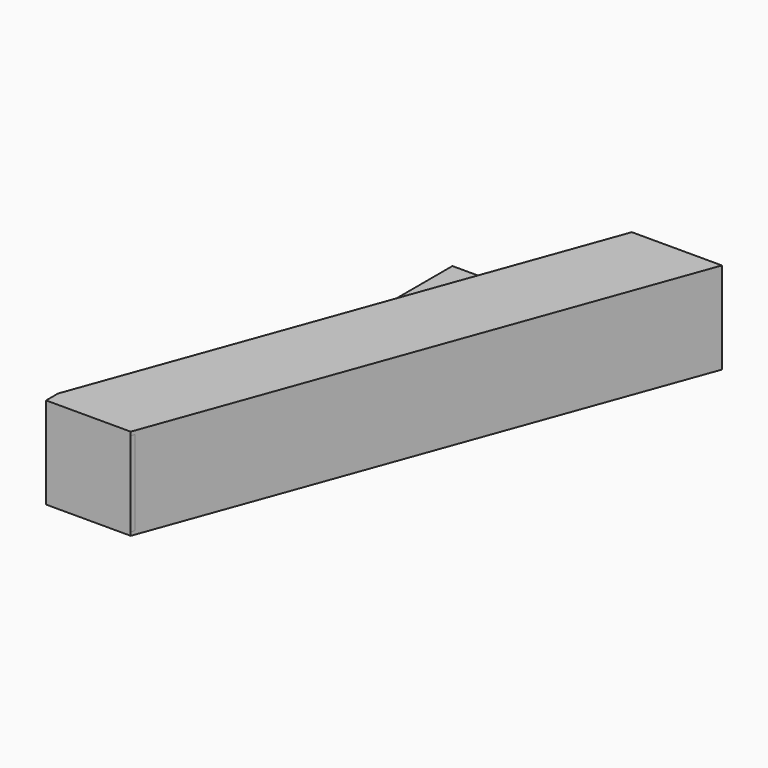
from build123d import *

# Parameters (mm, degrees)
F1_DEPTH = 3.175
F3_DEPTH = 76.2
F5_DEPTH = 3.175


with BuildPart() as f1:
    # F0 (on Top) → F1 (new body)
    with BuildSketch(Plane.XY):
        with BuildLine():
            ThreePointArc((0, 152.4), (23.5583821583, 150.5681328505), (46.5504148891, 145.1165699486))
            Line((46.5504148891, 145.1165699486), (76.2, 145.1165699486))
            Line((76.2, 145.1165699486), (76.2, 220.9699887776))
            Line((76.2, 220.9699887776), (0, 220.9699887776))
            Line((0, 220.9699887776), (0, 152.4))
        make_face()
        with BuildLine():
            Line((0, 145.1165699486), (46.5504148891, 145.1165699486))
            ThreePointArc((46.5504148891, 145.1165699486), (23.5583821583, 150.5681328505), (0, 152.4))
            Line((0, 152.4), (0, 145.1165699486))
        make_face()
        with BuildLine():
            Line((76.2, 79.9558987255), (76.2, 131.9822715367))
            ThreePointArc((76.2, 131.9822715367), (61.7255501195, 139.3402901621), (46.5504148891, 145.1165699486))
            Line((46.5504148891, 145.1165699486), (0, 145.1165699486))
            Line((0, 145.1165699486), (0, 102.5676841179))
            ThreePointArc((0, 102.5676841179), (39.7420836099, 96.795488514), (76.2, 79.9558987255))
        make_face()
        with BuildLine():
            Line((76.2, 30.069767419), (76.2, 79.9558987255))
            ThreePointArc((76.2, 79.9558987255), (39.7420836099, 96.795488514), (0, 102.5676841179))
            Line((0, 102.5676841179), (0, 64.4676841179))
            ThreePointArc((0, 64.4676841179), (41.802083301, 55.469767419), (76.2, 30.069767419))
        make_face()
        with BuildLine():
            ThreePointArc((134.4041666021, 0.9676841179), (112.4647200648, 45.7397345375), (76.2, 79.9558987255))
            Line((76.2, 79.9558987255), (76.2, 30.069767419))
            ThreePointArc((76.2, 30.069767419), (86.426594721, 16.2812004311), (94.1857207861, 0.9676841179))
            Line((94.1857207861, 0.9676841179), (134.4041666021, 0.9676841179))
        make_face()
        with BuildLine():
            ThreePointArc((94.1857207861, 0.9676841179), (86.426594721, 16.2812004311), (76.2, 30.069767419))
            Line((76.2, 30.069767419), (76.2, 0.9676841179))
            Line((76.2, 0.9676841179), (94.1857207861, 0.9676841179))
        make_face()
        with BuildLine():
            Line((94.1857207861, 0.9676841179), (76.2, 0.9676841179))
            Line((76.2, 0.9676841179), (76.2, -104.3343991831))
            ThreePointArc((76.2, -104.3343991831), (95.0380976241, -73.0533403663), (101.6, -37.1323158821))
            ThreePointArc((101.6, -37.1323158821), (99.7292064339, -17.7249620165), (94.1857207861, 0.9676841179))
        make_face()
        with BuildLine():
            ThreePointArc((0, -152.4), (39.4440224736, -147.2070959265), (76.2, -131.9822715367))
            Line((76.2, -131.9822715367), (76.2, -104.3343991831))
            ThreePointArc((76.2, -104.3343991831), (41.802083301, -129.7343991831), (0, -138.7323158821))
            Line((0, -138.7323158821), (0, -152.4))
        make_face()
        with BuildLine():
            Line((76.2, -104.3343991831), (76.2, 0.9676841179))
            Line((76.2, 0.9676841179), (0, 0.9676841179))
            Line((0, 0.9676841179), (0, -138.7323158821))
            ThreePointArc((0, -138.7323158821), (41.802083301, -129.7343991831), (76.2, -104.3343991831))
        make_face()
        with BuildLine():
            Line((76.2, -154.2205304897), (76.2, -131.9822715367))
            ThreePointArc((76.2, -131.9822715367), (39.4440224736, -147.2070959265), (0, -152.4))
            Line((0, -152.4), (0, -166.4440847683))
            Line((0, -166.4440847683), (52.8635642719, -166.4440847683))
            ThreePointArc((52.8635642719, -166.4440847683), (64.8205578921, -160.8836200148), (76.2, -154.2205304897))
        make_face()
        with BuildLine():
            Line((0, -236.2300112224), (76.2, -236.2300112224))
            Line((76.2, -236.2300112224), (76.2, -166.4440847683))
            Line((76.2, -166.4440847683), (52.8635642719, -166.4440847683))
            ThreePointArc((52.8635642719, -166.4440847683), (26.9372965106, -174.2106586525), (0, -176.8323158821))
            Line((0, -176.8323158821), (0, -236.2300112224))
        make_face()
        Polygon((76.2, -236.2300112224), (101.6, -166.4440847683), (76.2, -166.4440847683), align=None)
        with BuildLine():
            Line((76.2, -166.4440847683), (76.2, -154.2205304897))
            ThreePointArc((76.2, -154.2205304897), (64.8205578921, -160.8836200148), (52.8635642719, -166.4440847683))
            Line((52.8635642719, -166.4440847683), (76.2, -166.4440847683))
        make_face()
        with BuildLine():
            ThreePointArc((0, -176.8323158821), (26.9372965106, -174.2106586525), (52.8635642719, -166.4440847683))
            Line((52.8635642719, -166.4440847683), (0, -166.4440847683))
            Line((0, -166.4440847683), (0, -176.8323158821))
        make_face()
        with BuildLine():
            Line((101.6, -166.4440847683), (131.2750589092, -84.9125304942))
            ThreePointArc((131.2750589092, -84.9125304942), (109.372641612, -124.0444281957), (76.2, -154.2205304897))
            Line((76.2, -154.2205304897), (76.2, -166.4440847683))
            Line((76.2, -166.4440847683), (101.6, -166.4440847683))
        make_face()
        with BuildLine():
            ThreePointArc((131.2750589092, -84.9125304942), (133.9529126579, -76.7896883426), (136.1286754731, -68.5181998738))
            ThreePointArc((136.1286754731, -68.5181998738), (110.8051835658, -104.6325537056), (76.2, -131.9822715367))
            Line((76.2, -131.9822715367), (76.2, -154.2205304897))
            ThreePointArc((76.2, -154.2205304897), (109.372641612, -124.0444281957), (131.2750589092, -84.9125304942))
        make_face()
        with BuildLine():
            ThreePointArc((76.2, -131.9822715367), (110.8051835658, -104.6325537056), (136.1286754731, -68.5181998738))
            ThreePointArc((136.1286754731, -68.5181998738), (138.8042974183, -52.9265242574), (139.7, -37.1323158821))
            ThreePointArc((139.7, -37.1323158821), (138.3697078018, -17.8991683798), (134.4041666021, 0.9676841179))
            Line((134.4041666021, 0.9676841179), (94.1857207861, 0.9676841179))
            ThreePointArc((94.1857207861, 0.9676841179), (99.7292064339, -17.7249620165), (101.6, -37.1323158821))
            ThreePointArc((101.6, -37.1323158821), (95.0380976241, -73.0533403663), (76.2, -104.3343991831))
            Line((76.2, -104.3343991831), (76.2, -131.9822715367))
        make_face()
        with BuildLine():
            ThreePointArc((143.2091555839, -52.1238693589), (150.0847016038, -26.4639820229), (152.4, 0))
            ThreePointArc((152.4, 0), (131.9822715367, 76.2), (76.2, 131.9822715367))
            Line((76.2, 131.9822715367), (76.2, 79.9558987255))
            ThreePointArc((76.2, 79.9558987255), (112.4647200648, 45.7397345375), (134.4041666021, 0.9676841179))
            ThreePointArc((134.4041666021, 0.9676841179), (138.3697078018, -17.8991683798), (139.7, -37.1323158821))
            ThreePointArc((139.7, -37.1323158821), (138.8042974183, -52.9265242574), (136.1286754731, -68.5181998738))
            ThreePointArc((136.1286754731, -68.5181998738), (139.9092544586, -60.4248336103), (143.2091555839, -52.1238693589))
        make_face()
        with BuildLine():
            ThreePointArc((76.2, 131.9822715367), (131.9822715367, 76.2), (152.4, 0))
            ThreePointArc((152.4, 0), (150.0847016038, -26.4639820229), (143.2091555839, -52.1238693589))
            Line((143.2091555839, -52.1238693589), (242.6071911065, 220.9699887776))
            Line((242.6071911065, 220.9699887776), (76.2, 145.1165699486))
            Line((76.2, 145.1165699486), (76.2, 131.9822715367))
        make_face()
        with BuildLine():
            ThreePointArc((46.5504148891, 145.1165699486), (61.7255501195, 139.3402901621), (76.2, 131.9822715367))
            Line((76.2, 131.9822715367), (76.2, 145.1165699486))
            Line((76.2, 145.1165699486), (46.5504148891, 145.1165699486))
        make_face()
        Polygon((76.2, 220.9699887776), (76.2, 145.1165699486), (242.6071911065, 220.9699887776), align=None)
        with BuildLine():
            Line((131.2750589092, -84.9125304942), (143.2091555839, -52.1238693589))
            ThreePointArc((143.2091555839, -52.1238693589), (139.9092544586, -60.4248336103), (136.1286754731, -68.5181998738))
            ThreePointArc((136.1286754731, -68.5181998738), (133.9529126579, -76.7896883426), (131.2750589092, -84.9125304942))
        make_face()
    extrude(amount=F1_DEPTH)

    # F2 (on face) → F3 (join)
    with BuildSketch(Plane.XY.offset(3.175)):
        Polygon((242.6071911065, 220.9699887776), (239.2284266789, 220.9699887776), (73.9768410662, -233.0550112224), (77.3556054938, -233.0550112224), align=None)
        Polygon((77.3556054938, -233.0550112224), (73.9768410662, -233.0550112224), (72.8212355724, -236.2300112224), (76.2, -236.2300112224), align=None)
        Polygon((72.8212355724, -236.2300112224), (73.9768410662, -233.0550112224), (0, -233.0550112224), (0, -236.2300112224), align=None)
    extrude(amount=F3_DEPTH)

    # F4 (on face) → F5 (join)
    with BuildSketch(Plane.XY.offset(79.375)):
        Polygon((239.2284266789, 220.9699887776), (161.5176911065, 220.9699887776), (0, -222.7934112224), (0, -233.0550112224), (73.9768410662, -233.0550112224), align=None)
        Polygon((242.6071911065, 220.9699887776), (239.2284266789, 220.9699887776), (73.9768410662, -233.0550112224), (0, -233.0550112224), (0, -236.2300112224), (76.2, -236.2300112224), align=None)
    extrude(amount=F5_DEPTH)


solid = f1.part
